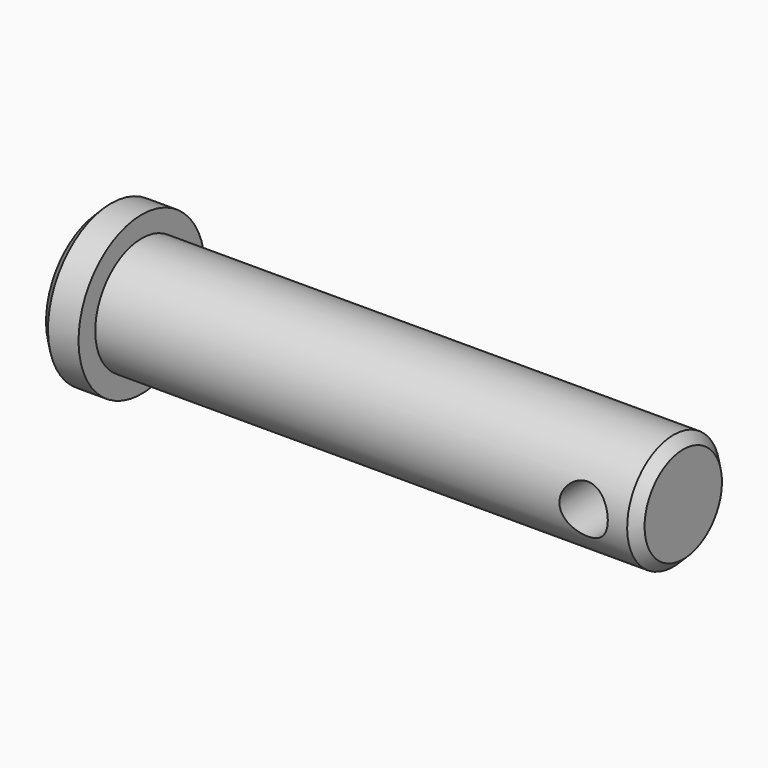
from build123d import *

# Parameters (mm, degrees)
F2_D     = 3.96875
F2_DEPTH = 6.478
F3_SIZE  = 0.79375


with BuildPart() as f1:
    # F0 (on Front) → F1 (revolve)
    with BuildSketch(Plane.XZ):
        with BuildLine():
            Line((0, 6.477), (0, 0))
            Line((0, 0), (41.398825, 0))
            ThreePointArc((41.398825, 0), (43.3832, 1.984375), (45.367575, 0))
            Line((45.367575, 0), (47.752, 0))
            Line((47.752, 0), (47.752, 4.7625))
            Line((47.752, 4.7625), (3.302, 4.7625))
            Line((3.302, 4.7625), (3.302, 6.477))
            Line((3.302, 6.477), (0, 6.477))
        make_face()
        with BuildLine():
            ThreePointArc((45.367575, 0), (43.3832, 1.984375), (41.398825, 0))
            Line((41.398825, 0), (45.367575, 0))
        make_face()
        with BuildLine():
            Line((45.367575, 0), (41.398825, 0))
            ThreePointArc((41.398825, 0), (43.3832, -1.984375), (45.367575, 0))
        make_face()
    revolve(axis=Axis((23.876, 0, 0), (1, 0, 0)))

    # F2 (through all, one way)
    with BuildSketch(Plane(origin=(0, 0, 0), x_dir=(1, 0, 0), z_dir=(0, 1, 0))):
        with Locations((43.3832, 0)):
            Circle(F2_D / 2)
    extrude(amount=-F2_DEPTH, mode=Mode.SUBTRACT)

    # F3
    f3_edges = [f1.edges().sort_by_distance(p)[0] for p in [
        (47.752, 0, -4.7625),
        (0, 0, -6.477),
    ]]
    chamfer(f3_edges, length=F3_SIZE)


solid = f1.part
